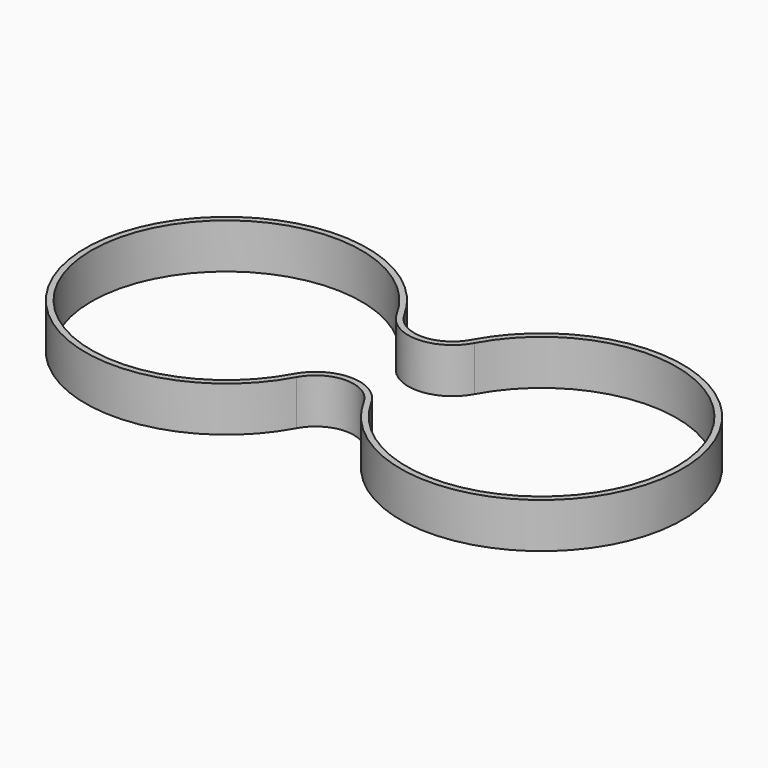
from build123d import *

# Parameters (mm, degrees)
F1_DEPTH = 15


with BuildPart() as f1:
    # F0 (on Top) → F1 (new body)
    with BuildSketch(Plane.XY):
        with BuildLine():
            ThreePointArc((41.322691, -22.39275), (52.5, -15.781645), (63.677309, -22.39275))
            ThreePointArc((63.677309, -22.39275), (63.705878, -22.445018), (63.734202, -22.49742))
            ThreePointArc((63.734202, -22.49742), (152, 0), (63.734202, 22.49742))
            ThreePointArc((63.734202, 22.49742), (63.705878, 22.445018), (63.677309, 22.39275))
            ThreePointArc((63.677309, 22.39275), (52.5, 15.781645), (41.322691, 22.39275))
            ThreePointArc((41.322691, 22.39275), (41.294122, 22.445018), (41.265798, 22.49742))
            ThreePointArc((41.265798, 22.49742), (-47, 0), (41.265798, -22.49742))
            ThreePointArc((41.265798, -22.49742), (41.294122, -22.445018), (41.322691, -22.39275))
        make_face()
        with BuildLine():
            ThreePointArc((39.504121, 21.550508), (39.535589, 21.492724), (39.566973, 21.434893))
            ThreePointArc((39.566973, 21.434893), (52.5, 13.781645), (65.433027, 21.434893))
            ThreePointArc((65.433027, 21.434893), (65.464411, 21.492724), (65.495879, 21.550508))
            ThreePointArc((65.495879, 21.550508), (150, 0), (65.495879, -21.550508))
            ThreePointArc((65.495879, -21.550508), (65.464411, -21.492724), (65.433027, -21.434893))
            ThreePointArc((65.433027, -21.434893), (63.48993, -18.691657), (60.976304, -16.459472))
            ThreePointArc((60.976304, -16.459472), (49.160195, -14.164619), (39.566973, -21.434893))
            ThreePointArc((39.566973, -21.434893), (39.535589, -21.492724), (39.504121, -21.550508))
            ThreePointArc((39.504121, -21.550508), (-45, 0), (39.504121, 21.550508))
        make_face(mode=Mode.SUBTRACT)
    extrude(amount=F1_DEPTH)


solid = f1.part
